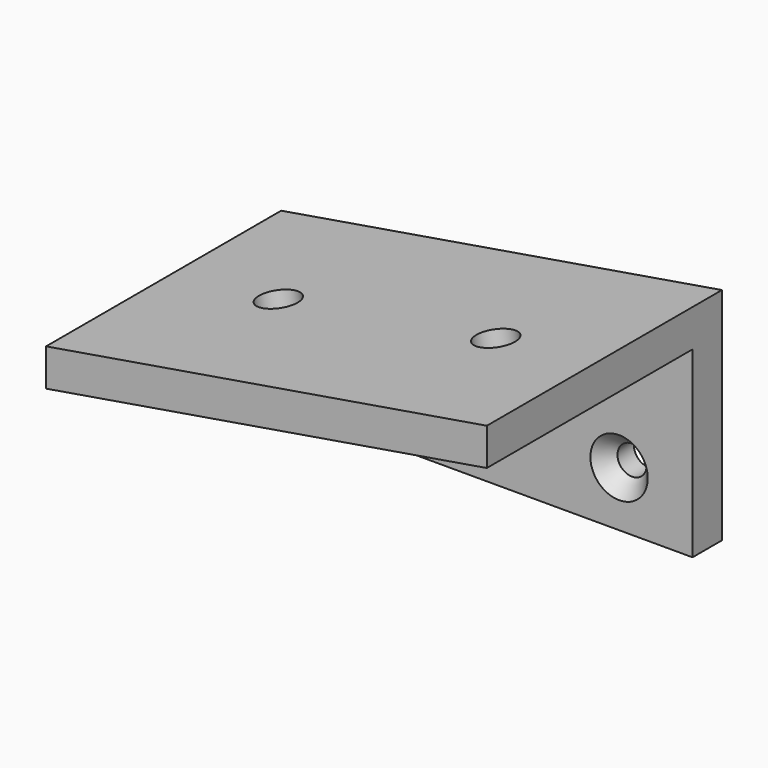
from build123d import *

# Parameters (mm, degrees)
F0_W           = 152.4
F0_H           = 101.6
F1_DEPTH       = 101.6
F3_DEPTH       = 101.601
F5_DEPTH       = 88.9
F7_D           = 10.0838
F7_CSINK_D     = 19.8374
F7_CSINK_ANGLE = 82
F9_D           = 13.49248


with BuildPart() as f1:
    # F0 (on Front) → F1 (new body)
    with BuildSketch(Plane.XZ):
        with Locations((76.2, 50.8)):
            Rectangle(F0_W, F0_H)
    extrude(amount=F1_DEPTH)

    # F2 (on face) → F3 (cut, through all)
    with BuildSketch(Plane.XZ.offset(101.6)):
        Polygon((0, 50.8), (152.4, 76.2), (152.4, 101.6), (0, 101.6), align=None)
    extrude(amount=-F3_DEPTH, mode=Mode.SUBTRACT)

    # F4 (on face) → F5 (cut)
    with BuildSketch(Plane.XZ.offset(101.6)):
        Polygon((0, 37.9248193109), (0, 0), (152.4, 0), (152.4, 63.3248193109), align=None)
    extrude(amount=-F5_DEPTH, mode=Mode.SUBTRACT)

    # F7 (through all)
    with Locations(Plane.XZ.offset(12.7)):
        with Locations((25.4, 19.05), (127, 19.05)):
            CounterSinkHole(F7_D / 2, F7_CSINK_D / 2, counter_sink_angle=F7_CSINK_ANGLE)

    # F9 (through all)
    with Locations(Plane(origin=(-8.2378378378, 0, 49.427027027), x_dir=(0.9863939238, 0, 0.1643989873), z_dir=(-0.1643989873, 0, 0.9863939238))):
        with Locations((124.7536368247, -50.8), (48.5536368247, -50.8)):
            Hole(F9_D / 2)


solid = f1.part
